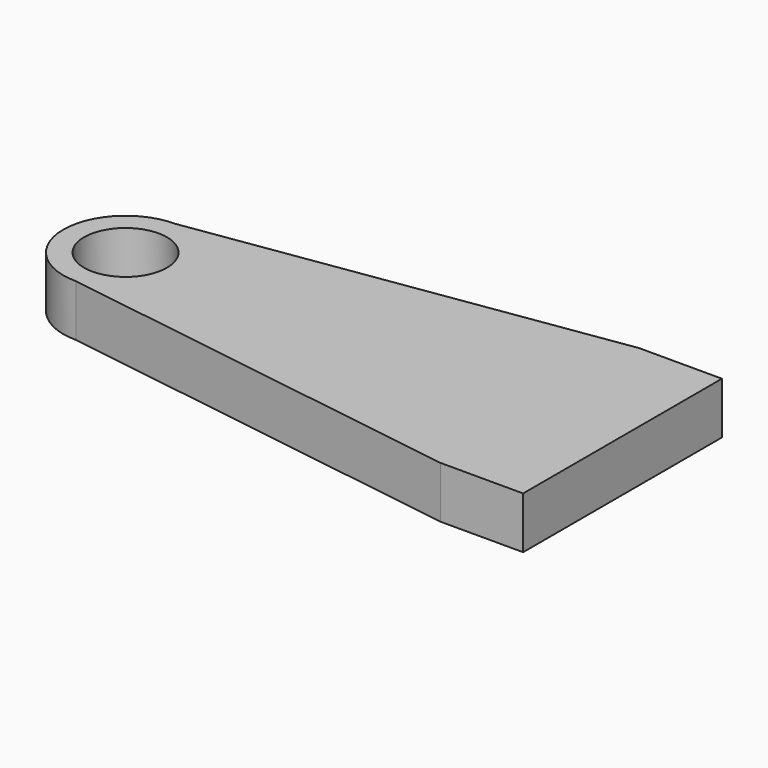
from build123d import *

# Parameters (mm, degrees)
F1_DEPTH = 3.175
F3_D     = 5.08


with BuildPart() as f1:
    # F0 (on Top) → F1 (new body)
    with BuildSketch(Plane.XY):
        with BuildLine():
            Line((25.4, 7.62), (0, 3.81))
            ThreePointArc((0, 3.81), (-3.81, 0), (0, -3.81))
            Line((0, -3.81), (25.4, -7.62))
            Line((25.4, -7.62), (30.48, -7.62))
            Line((30.48, -7.62), (30.48, 7.62))
            Line((30.48, 7.62), (25.4, 7.62))
        make_face()
    extrude(amount=F1_DEPTH)

    # F3 (through all)
    with Locations(Plane(origin=(0, 0, 0), x_dir=(1, 0, 0), z_dir=(0, 0, -1))):
        with Locations((0, 0)):
            Hole(F3_D / 2)


solid = f1.part
